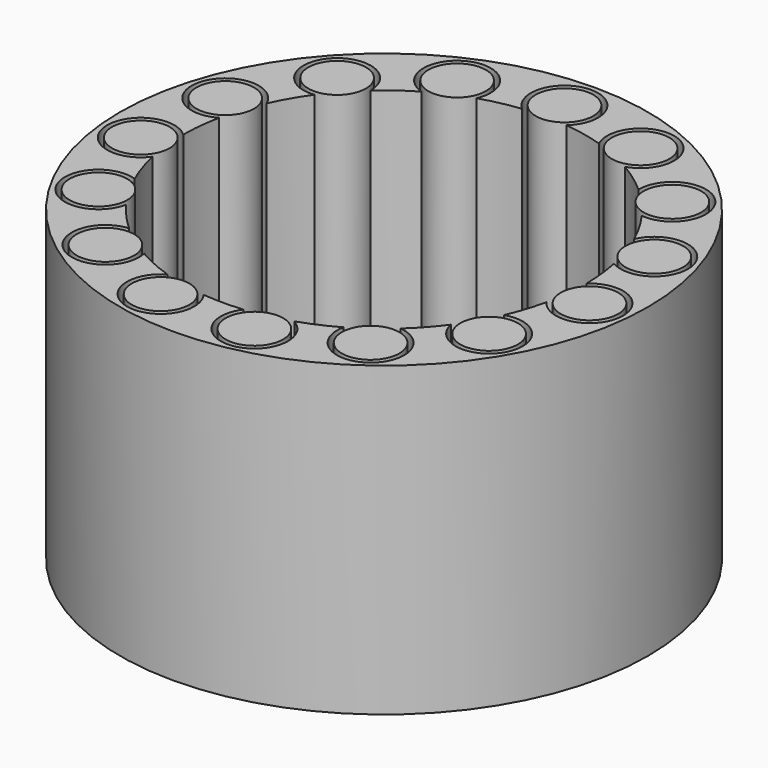
from build123d import *

# Parameters (mm, degrees)
F0_R     = 21.828125
F1_DEPTH = 25.4
F2_R     = 20.760505
F2_R_2   = 20.295985
F3_DEPTH = 0.0254
F4_R     = 2.38125
F5_DEPTH = 25.4


with BuildPart() as f1:
    # F0 (on Top) → F1 (new body)
    with BuildSketch(Plane.XY):
        Circle(F0_R)
        with BuildLine():
            ThreePointArc((-1.83516, 16.56742), (-1.144481, 21.184556), (2.778125, 18.653125))
            ThreePointArc((2.778125, 18.653125), (2.531431, 17.508644), (1.83516, 16.56742))
            ThreePointArc((1.83516, 16.56742), (3.465628, 16.304498), (5.062074, 15.881519))
            ThreePointArc((5.062074, 15.881519), (6.993752, 19.754542), (10.365034, 17.040478))
            ThreePointArc((10.365034, 17.040478), (9.825071, 15.394692), (8.415079, 14.388664))
            ThreePointArc((8.415079, 14.388664), (9.797645, 13.485302), (11.084031, 12.449558))
            ThreePointArc((11.084031, 12.449558), (13.846064, 15.259456), (16.640098, 12.481377))
            ThreePointArc((16.640098, 12.481377), (15.709048, 10.406216), (13.539955, 9.721978))
            ThreePointArc((13.539955, 9.721978), (14.435561, 8.334375), (15.189457, 6.864956))
            ThreePointArc((15.189457, 6.864956), (18.302209, 8.484812), (20.518301, 5.764133))
            ThreePointArc((20.518301, 5.764133), (19.115438, 3.35029), (16.323649, 3.374273))
            ThreePointArc((16.323649, 3.374273), (16.577437, 1.742359), (16.668489, 0.09334))
            ThreePointArc((16.668489, 0.09334), (19.666354, 0.59459), (21.329066, -1.949782))
            ThreePointArc((21.329066, -1.949782), (19.394284, -4.596809), (16.284836, -3.556874))
            ThreePointArc((16.284836, -3.556874), (15.852923, -5.150927), (15.265387, -6.694414))
            ThreePointArc((15.265387, -6.694414), (17.774123, -7.069698), (18.932205, -9.326563))
            ThreePointArc((18.932205, -9.326563), (16.428646, -12.091086), (13.430227, -9.873006))
            ThreePointArc((13.430227, -9.873006), (12.387295, -11.153571), (11.222761, -12.324644))
            ThreePointArc((11.222761, -12.324644), (13.017901, -13.219974), (13.742157, -15.090695))
            ThreePointArc((13.742157, -15.090695), (10.657821, -17.851893), (8.253409, -14.482005))
            ThreePointArc((8.253409, -14.482005), (6.779791, -15.227661), (5.239618, -15.823831))
            ThreePointArc((5.239618, -15.823831), (6.276135, -16.842692), (6.656328, -18.245509))
            ThreePointArc((6.656328, -18.245509), (3.004598, -20.882704), (1.649503, -16.586934))
            ThreePointArc((1.649503, -16.586934), (0, -16.66875), (-1.649503, -16.586934))
            ThreePointArc((-1.649503, -16.586934), (-1.241009, -17.371905), (-1.100078, -18.245509))
            ThreePointArc((-1.100078, -18.245509), (-5.281021, -20.643442), (-5.239618, -15.823831))
            ThreePointArc((-5.239618, -15.823831), (-6.779791, -15.227661), (-8.253409, -14.482005))
            ThreePointArc((-8.253409, -14.482005), (-8.202834, -14.784484), (-8.185907, -15.090695))
            ThreePointArc((-8.185907, -15.090695), (-12.834753, -17.144565), (-11.222761, -12.324644))
            ThreePointArc((-11.222761, -12.324644), (-12.387295, -11.153571), (-13.430227, -9.873006))
            ThreePointArc((-13.430227, -9.873006), (-18.560007, -10.715625), (-15.265387, -6.694414))
            ThreePointArc((-15.265387, -6.694414), (-15.852923, -5.150927), (-16.284836, -3.556874))
            ThreePointArc((-16.284836, -3.556874), (-21.313847, -2.240176), (-16.668489, 0.09334))
            ThreePointArc((-16.668489, 0.09334), (-16.577437, 1.742359), (-16.323649, 3.374273))
            ThreePointArc((-16.323649, 3.374273), (-20.38233, 6.62262), (-15.189457, 6.864956))
            ThreePointArc((-15.189457, 6.864956), (-14.435561, 8.334375), (-13.539955, 9.721978))
            ThreePointArc((-13.539955, 9.721978), (-15.937134, 14.328452), (-11.083848, 12.481377))
            ThreePointArc((-11.083848, 12.481377), (-11.083894, 12.465467), (-11.084031, 12.449558))
            ThreePointArc((-11.084031, 12.449558), (-9.797645, 13.485302), (-8.415079, 14.388664))
            ThreePointArc((-8.415079, 14.388664), (-9.232695, 19.27864), (-4.808784, 17.040478))
            ThreePointArc((-4.808784, 17.040478), (-4.872846, 16.44732), (-5.062074, 15.881519))
            ThreePointArc((-5.062074, 15.881519), (-3.465628, 16.304498), (-1.83516, 16.56742))
        make_face(mode=Mode.SUBTRACT)
    extrude(amount=F1_DEPTH)

    # F2 (on face) → F3 (join)
    with BuildSketch(Plane(origin=(0, 0, 0), x_dir=(1, 0, 0), z_dir=(0, 0, -1))):
        Circle(F2_R)
        Circle(F2_R_2, mode=Mode.SUBTRACT)
    extrude(amount=-F3_DEPTH)

    # F4 (on face) → F5 (join)
    with BuildSketch(Plane.XY.offset(25.4)):
        with Locations((0, 18.653125)):
            Circle(F4_R)
        with Locations((-7.586909, 17.040478)):
            Circle(F4_R)
        with Locations((-13.861973, 12.481377)):
            Circle(F4_R)
        with Locations((-17.740176, 5.764133)):
            Circle(F4_R)
        with Locations((-18.550941, -1.949782)):
            Circle(F4_R)
        with Locations((-16.15408, -9.326562)):
            Circle(F4_R)
        with Locations((-10.964032, -15.090695)):
            Circle(F4_R)
        with Locations((-3.878203, -18.245509)):
            Circle(F4_R)
        with Locations((3.878203, -18.245509)):
            Circle(F4_R)
        with Locations((10.964032, -15.090695)):
            Circle(F4_R)
        with Locations((16.15408, -9.326563)):
            Circle(F4_R)
        with Locations((18.550941, -1.949782)):
            Circle(F4_R)
        with Locations((17.740176, 5.764133)):
            Circle(F4_R)
        with Locations((13.861973, 12.481377)):
            Circle(F4_R)
        with Locations((7.586909, 17.040478)):
            Circle(F4_R)
    extrude(amount=-F5_DEPTH)


solid = f1.part
